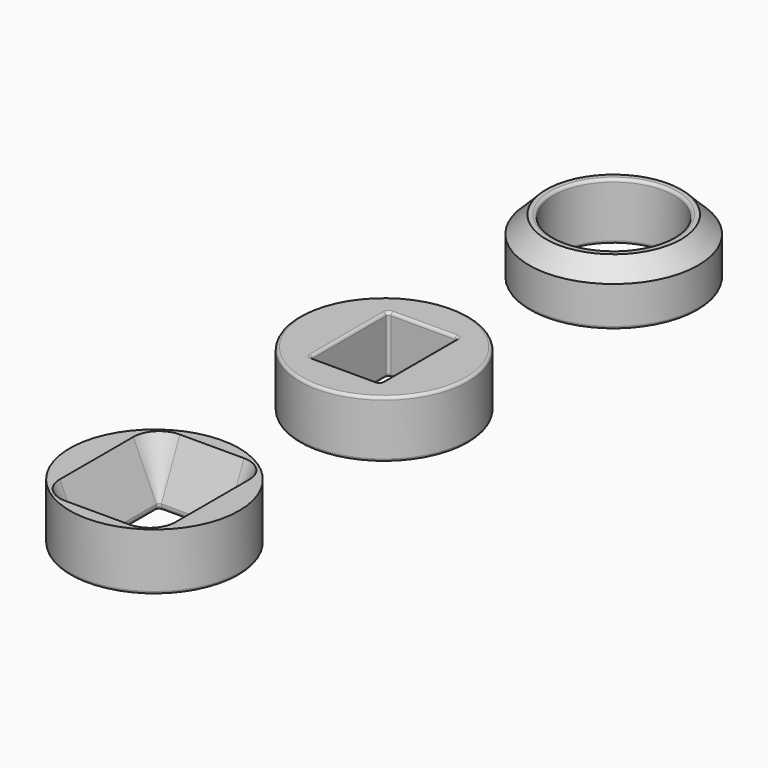
from build123d import *

# Parameters (mm, degrees)
F0_R     = 14.75
F0_R_2   = 10.5
F0_W     = 12.164841
F0_H     = 17
F1_DEPTH = 10
F2_DEPTH = 10
F3_SIZE  = 3
F4_R     = 0.5
F4_2_R   = 0.5
F5_SIZE2 = 9
F5_SIZE  = 4


with BuildPart() as f1:
    # F0 (on Top) → F1 (new body)
    with BuildSketch(Plane.XY):
        with Locations((-115.656201, 28.387381)):
            Circle(F0_R)
        with Locations((-115.656201, 28.387381)):
            Circle(F0_R_2, mode=Mode.SUBTRACT)
        with Locations((-115.656201, -21.612619)):
            Circle(F0_R)
        with Locations((-115.6562, -21.612619)):
            Rectangle(F0_W, F0_H, mode=Mode.SUBTRACT)
    extrude(amount=F1_DEPTH)

    # F3
    f3_edges = [f1.edges().sort_by_distance(p)[0] for p in [
        (-130.406201, 28.387381, 10),
    ]]
    chamfer(f3_edges, length=F3_SIZE)

    # F4
    f4_edges = [f1.edges().sort_by_distance(p)[0] for p in [
        (-130.406201, -21.612619, 0),
        (-121.738621, -21.612619, 0),
        (-115.656201, -13.112619, 0),
        (-109.57378, -21.612619, 0),
        (-115.656201, -30.112619, 0),
        (-130.406201, 28.387381, 0),
        (-126.156201, 28.387381, 0),
        (-130.406201, -21.612619, 10),
        (-121.738621, -21.612619, 10),
        (-115.656201, -13.112619, 10),
        (-109.57378, -21.612619, 10),
        (-115.656201, -30.112619, 10),
        (-121.738621, -13.112619, 5),
        (-109.57378, -13.112619, 5),
        (-109.57378, -30.112619, 5),
        (-121.738621, -30.112619, 5),
        (-105.156201, 28.387381, 5),
        (-126.156201, 28.387381, 10),
    ]]
    fillet(f4_edges, radius=F4_R)


with BuildPart() as f2:
    # F0 (on Top) → F2 (new body)
    with BuildSketch(Plane.XY):
        with Locations((-115.656201, -71.612619)):
            Circle(F0_R)
        with Locations((-115.6562, -71.612619)):
            Rectangle(F0_W, F0_H, mode=Mode.SUBTRACT)
    extrude(amount=F2_DEPTH)

    # F4#2
    f4_2_edges = [f2.edges().sort_by_distance(p)[0] for p in [
        (-130.406201, -71.612619, 0),
        (-121.738621, -71.612619, 0),
        (-115.656201, -63.112619, 0),
        (-109.57378, -71.612619, 0),
        (-115.656201, -80.112619, 0),
        (-109.57378, -63.112619, 5),
        (-121.738621, -63.112619, 5),
        (-121.738621, -80.112619, 5),
        (-109.57378, -80.112619, 5),
    ]]
    fillet(f4_2_edges, radius=F4_2_R)

    # F5
    f5_edges = [f2.edges().sort_by_distance(p)[0] for p in [
        (-115.656201, -63.112619, 10),
        (-109.57378, -71.612619, 10),
        (-115.656201, -80.112619, 10),
        (-121.738621, -71.612619, 10),
    ]]
    chamfer(f5_edges, length=F5_SIZE, length2=F5_SIZE2)


solid = Compound([f1.part, f2.part])
